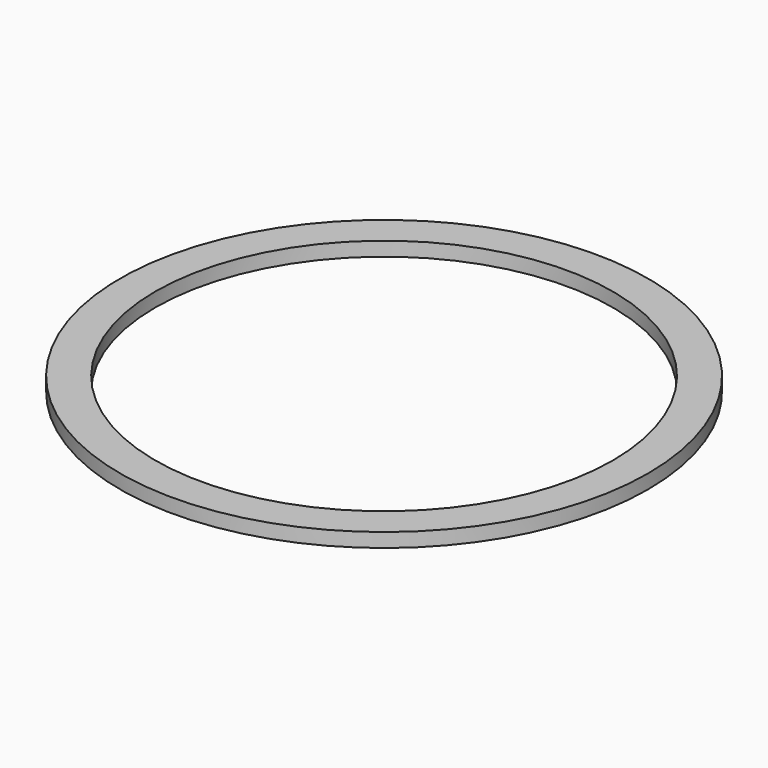
from build123d import *

# Parameters (mm, degrees)
SKETCH_R   = 37.5
SKETCH_R_2 = 32.5
PAD_DEPTH  = 2


with BuildPart() as part:
    # Sketch → Pad (new body)
    with BuildSketch(Plane.XY):
        Circle(SKETCH_R)
        Circle(SKETCH_R_2, mode=Mode.SUBTRACT)
    extrude(amount=PAD_DEPTH)


solid = part.part
